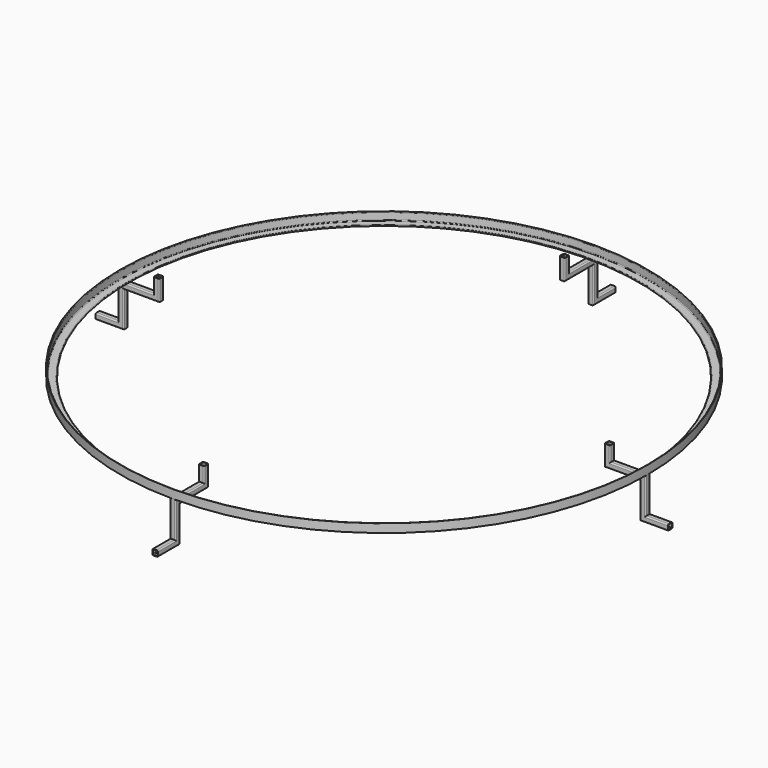
from build123d import *

# Parameters (mm, degrees)
F6_COUNT = 4


with BuildPart() as f1:
    # F0 (on Front) → F1 (revolve)
    with BuildSketch(Plane.XZ):
        with BuildLine():
            ThreePointArc((1795, 5), (1791.4644660941, 3.5355339059), (1790, 0))
            Line((1790, 0), (1850, 0))
            Line((1850, 0), (1850, 60))
            ThreePointArc((1850, 60), (1846.4644660941, 58.5355339059), (1845, 55))
            Line((1845, 55), (1845, 10))
            ThreePointArc((1845, 10), (1843.5355339059, 6.4644660941), (1840, 5))
            Line((1840, 5), (1795, 5))
        make_face()
    revolve(axis=Axis((0, 0, 64.8235270174), (0, 0, 1)))


with BuildPart() as f5:
    # F5: sweep along a path in F2
    with BuildLine(Plane.YZ) as f5_path:
        Line((-2005, -270), (-1830, -270))
        Line((-1830, -270), (-1830, -20))
        Line((-1830, -20), (-1580, -20))
        Line((-1580, -20), (-1580, 105))
    # F4 (on plane+point) → F5 (sweep)
    with BuildSketch(Plane.XZ.offset(2005)):
        with BuildLine():
            Line((-12, -290), (12, -290))
            ThreePointArc((12, -290), (17.6568542495, -287.6568542495), (20, -282))
            Line((20, -282), (20, -258))
            ThreePointArc((20, -258), (17.6568542495, -252.3431457505), (12, -250))
            Line((12, -250), (-12, -250))
            ThreePointArc((-12, -250), (-17.6568542495, -252.3431457505), (-20, -258))
            Line((-20, -258), (-20, -282))
            ThreePointArc((-20, -282), (-17.6568542495, -287.6568542495), (-12, -290))
        make_face()
        with BuildLine():
            ThreePointArc((12, -254), (14.8284271247, -255.1715728753), (16, -258))
            Line((16, -258), (16, -282))
            ThreePointArc((16, -282), (14.8284271247, -284.8284271247), (12, -286))
            Line((12, -286), (-12, -286))
            ThreePointArc((-12, -286), (-14.8284271247, -284.8284271247), (-16, -282))
            Line((-16, -282), (-16, -258))
            ThreePointArc((-16, -258), (-14.8284271247, -255.1715728753), (-12, -254))
            Line((-12, -254), (12, -254))
        make_face(mode=Mode.SUBTRACT)
    sweep(path=f5_path.line, transition=Transition.RIGHT)


with BuildPart() as f6_1:
    # F6: instance of F5
    add(f5.part.rotate(Axis((0, 0, 60), (0, 0, 1)), 1 * 360 / F6_COUNT))


with BuildPart() as f6_2:
    # F6: instance of F5
    add(f5.part.rotate(Axis((0, 0, 60), (0, 0, 1)), 2 * 360 / F6_COUNT))


with BuildPart() as f6_3:
    # F6: instance of F5
    add(f5.part.rotate(Axis((0, 0, 60), (0, 0, 1)), 3 * 360 / F6_COUNT))


solid = Compound([f1.part, f5.part, f6_1.part, f6_2.part, f6_3.part])
